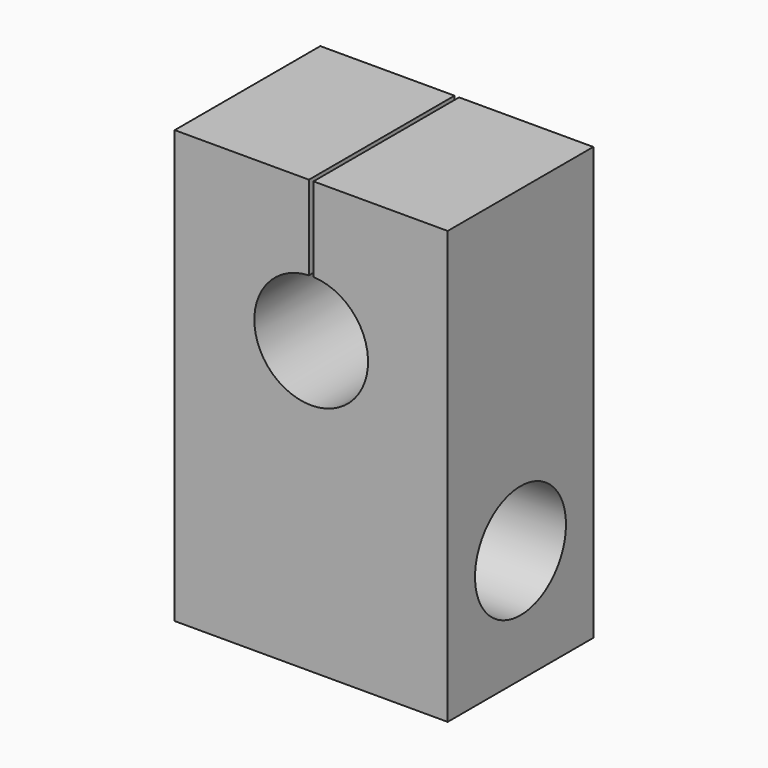
from build123d import *

# Parameters (mm, degrees)
F1_DEPTH = 40
F2_R     = 12.5
F3_DEPTH = 60.001


with BuildPart() as f1:
    # F0 (on Front) → F1 (new body)
    with BuildSketch(Plane.XZ):
        with BuildLine():
            Line((-30, 95), (-30, 0))
            Line((-30, 0), (30, 0))
            Line((30, 0), (30, 95))
            Line((30, 95), (0.5, 95))
            Line((0.5, 95), (0.5, 76.489996))
            ThreePointArc((0.5, 76.489996), (0, 51.5), (-0.5, 76.489996))
            Line((-0.5, 76.489996), (-0.5, 95))
            Line((-0.5, 95), (-30, 95))
        make_face()
    extrude(amount=F1_DEPTH)

    # F2 (on face) → F3 (cut, through all)
    with BuildSketch(Plane.YZ.offset(30)):
        with Locations((-20, 25)):
            Circle(F2_R)
    extrude(amount=-F3_DEPTH, mode=Mode.SUBTRACT)


solid = f1.part
